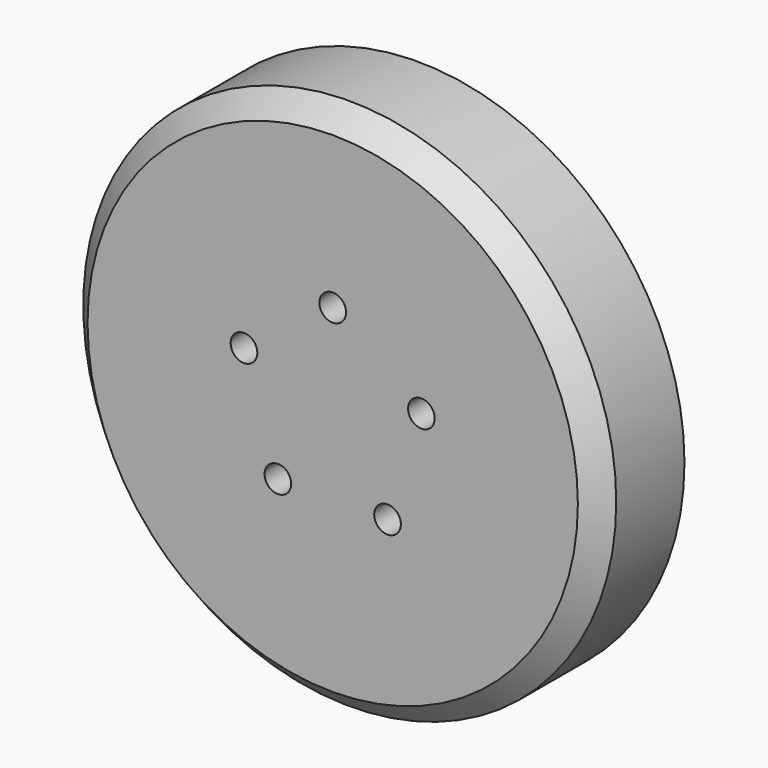
from build123d import *

# Parameters (mm, degrees)
F0_R     = 63.5
F1_DEPTH = 12.7
F3_D     = 6.35
F4_SIZE  = 5.08


with BuildPart() as f1:
    # F0 (on Front) → F1 (new body, symmetric)
    with BuildSketch(Plane.XZ):
        Circle(F0_R)
    extrude(amount=F1_DEPTH, both=True)

    # F3 (through all)
    with Locations(Plane.XZ.offset(12.7)):
        with Locations((0, 22.225), (21.137231, 6.867903), (13.063527, -17.980403), (-13.063527, -17.980403), (-21.137231, 6.867903)):
            Hole(F3_D / 2)

    # F4
    f4_edges = [f1.edges().sort_by_distance(p)[0] for p in [
        (-63.5, -12.7, 0),
    ]]
    chamfer(f4_edges, length=F4_SIZE)


solid = f1.part
